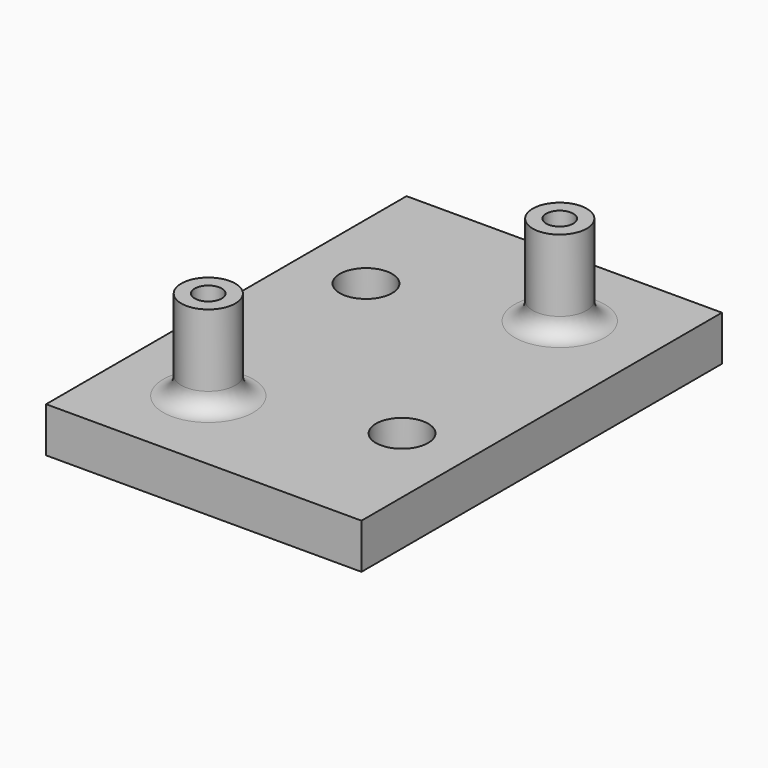
from build123d import *

# Parameters (mm, degrees)
SKETCH_W        = 35
SKETCH_H        = 50
PAD_DEPTH       = 5
SKETCH004_R     = 2.9
POCKET_DEPTH    = 3
SKETCH005_R     = 1.6
POCKET001_DEPTH = 5
SKETCH006_R     = 3
PAD001_DEPTH    = 10
SKETCH007_R     = 1.5
POCKET002_DEPTH = 8
FILLET_R        = 2


with BuildPart() as part:
    # Sketch → Pad (new body)
    with BuildSketch(Plane.XY):
        with Locations((17.5, 25)):
            Rectangle(SKETCH_W, SKETCH_H)
    extrude(amount=PAD_DEPTH)

    # Sketch004 → Pocket (cut)
    with BuildSketch(Plane.XY.offset(5)):
        with Locations((7.5, 35)):
            Circle(SKETCH004_R)
        with Locations((27.5, 15)):
            Circle(SKETCH004_R)
    extrude(amount=-POCKET_DEPTH, mode=Mode.SUBTRACT)

    # Sketch005 → Pocket001 (cut)
    with BuildSketch(Plane.XY.offset(2)):
        with Locations((7.5, 15)):
            Circle(SKETCH005_R)
        with Locations((7.5, 35)):
            Circle(SKETCH005_R)
        with Locations((27.5, 15)):
            Circle(SKETCH005_R)
        with Locations((27.5, 35)):
            Circle(SKETCH005_R)
    extrude(amount=-POCKET001_DEPTH, mode=Mode.SUBTRACT)

    # Sketch006 → Pad001 (new body)
    with BuildSketch(Plane.XY.offset(5)):
        with Locations((10, 10)):
            Circle(SKETCH006_R)
        with Locations((25, 40)):
            Circle(SKETCH006_R)
    extrude(amount=PAD001_DEPTH)

    # Sketch007 → Pocket002 (cut)
    with BuildSketch(Plane.XY.offset(15)):
        with Locations((10, 10)):
            Circle(SKETCH007_R)
        with Locations((25, 40)):
            Circle(SKETCH007_R)
    extrude(amount=-POCKET002_DEPTH, mode=Mode.SUBTRACT)

    # Fillet
    fillet_edges = [part.edges().sort_by_distance(p)[0] for p in [
        (22, 40, 5),
        (7, 10, 5),
    ]]
    fillet(fillet_edges, radius=FILLET_R)


solid = part.part
